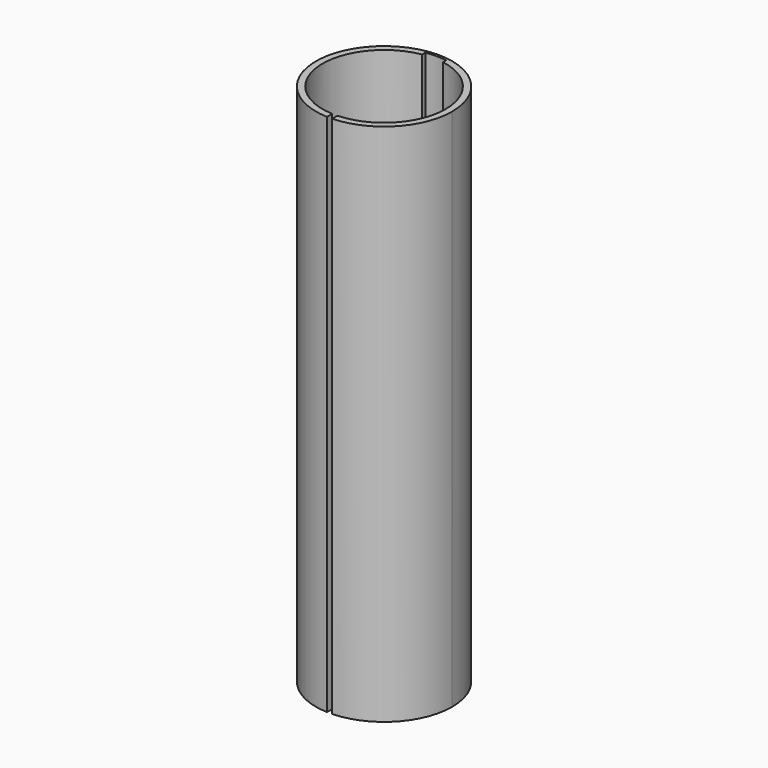
from build123d import *

# Parameters (mm, degrees)
F1_DEPTH = 100


with BuildPart() as f1:
    # F0 (on Top) → F1 (new body)
    with BuildSketch(Plane.XY):
        with BuildLine():
            ThreePointArc((2, 11.578536), (8.987839, 7.568438), (11.75, 0))
            ThreePointArc((11.75, 0), (8.48344, -8.129806), (0.5, -11.739357))
            Line((0.5, -11.739357), (0.5, -12.990381))
            ThreePointArc((0.5, -12.990381), (9.367497, -9.013878), (13, 0))
            ThreePointArc((13, 0), (-9.013878, 9.367497), (-0.5, -12.990381))
            Line((-0.5, -12.990381), (-0.5, -11.739357))
            ThreePointArc((-0.5, -11.739357), (-11.725764, -0.754298), (-2, 11.578536))
            Line((-2, 11.578536), (-2, 12.338963))
            ThreePointArc((-2, 12.338963), (0, 12.5), (2, 12.338963))
            Line((2, 12.338963), (2, 11.578536))
        make_face()
    extrude(amount=F1_DEPTH)


solid = f1.part
